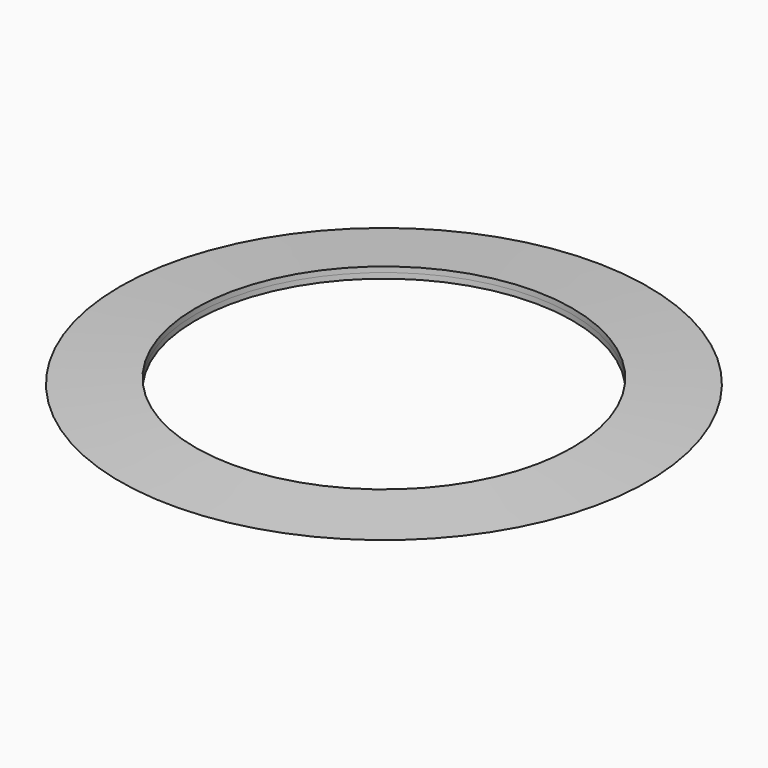
from build123d import *

# Parameters (mm, degrees)
F0_R          = 63.5
F3_DEPTH      = 33.02
F3_DEPTH_BACK = 49.022


with BuildPart() as f2:
    # F1 (on Front) → F2 (revolve)
    with BuildSketch(Plane.XZ):
        Polygon((0, 6.35), (-88.9, 0), (0, -6.35), align=None)
    revolve(axis=Axis((0, 0, 0), (0, 0, 1)))

    # F0 (on Top) → F3 (cut, two sides)
    with BuildSketch(Plane.XY) as f3_sk:
        Circle(F0_R)
    extrude(amount=-F3_DEPTH, mode=Mode.SUBTRACT)
    extrude(f3_sk.sketch, amount=F3_DEPTH_BACK, mode=Mode.SUBTRACT)


solid = f2.part
